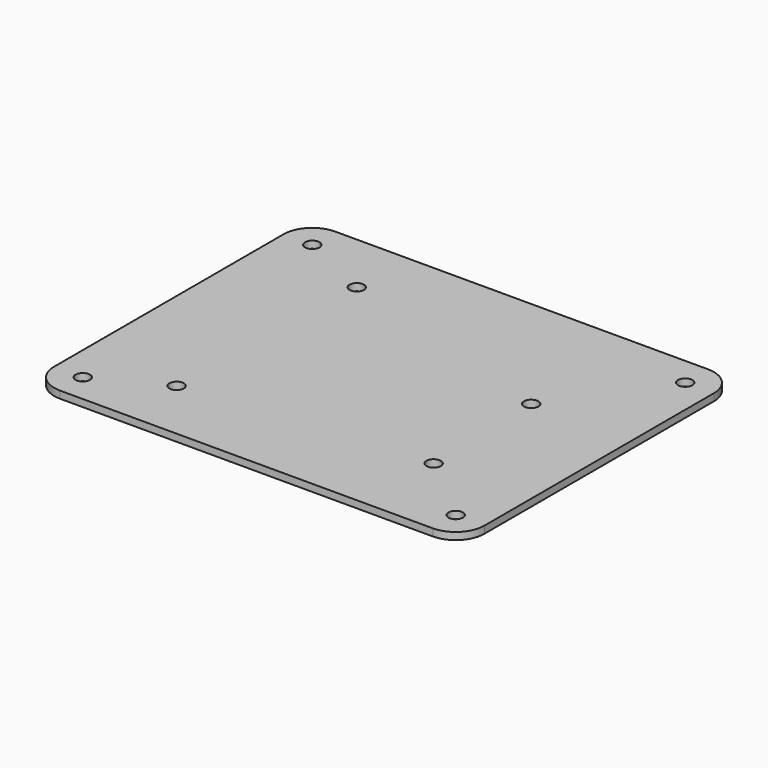
from build123d import *

# Parameters (mm, degrees)
F1_DEPTH = 1.5875
F2_D     = 3.175


with BuildPart() as f1:
    # F0 (on Top) → F1 (new body)
    with BuildSketch(Plane.XY):
        with BuildLine():
            ThreePointArc((0, 6.35), (1.859872, 1.859872), (6.35, 0))
            Line((6.35, 0), (88.9, 0))
            ThreePointArc((88.9, 0), (93.390128, 1.859872), (95.25, 6.35))
            Line((95.25, 6.35), (95.25, 69.85))
            ThreePointArc((95.25, 69.85), (93.390128, 74.340128), (88.9, 76.2))
            Line((88.9, 76.2), (6.35, 76.2))
            ThreePointArc((6.35, 76.2), (1.859872, 74.340128), (0, 69.85))
            Line((0, 69.85), (0, 6.35))
        make_face()
    extrude(amount=-F1_DEPTH)

    # F2 (through all)
    with Locations(Plane.XY):
        with Locations((6.35, 69.85), (22.290519, 62.23), (73.090519, 46.99), (88.9, 69.85), (88.9, 6.35), (73.848069, 19.05), (21.020519, 13.97), (6.35, 6.35)):
            Hole(F2_D / 2)


solid = f1.part
